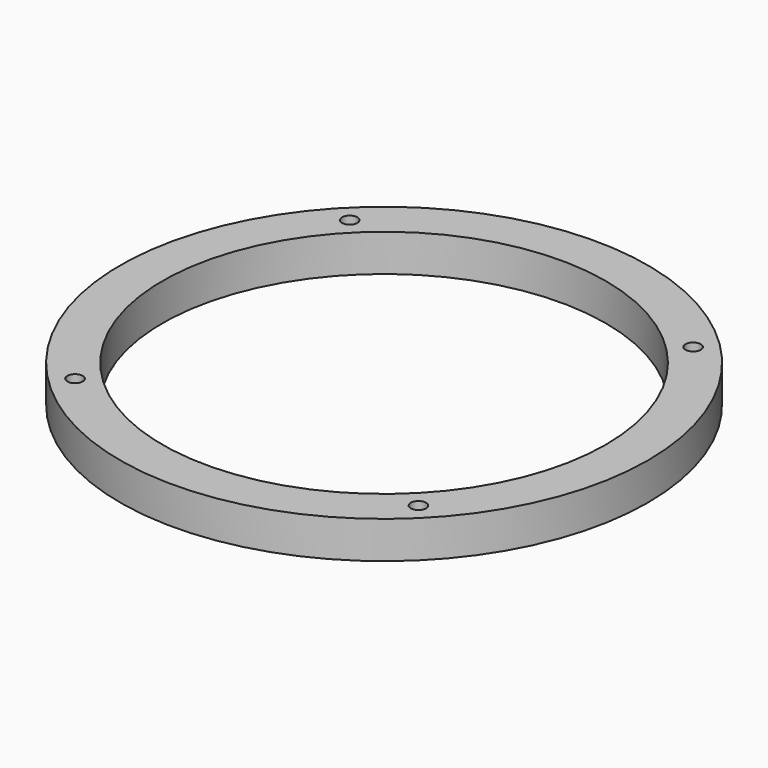
from build123d import *

# Parameters (mm, degrees)
F0_R     = 59.474989
F0_R_2   = 1.7272
F0_R_3   = 49.949989
F1_DEPTH = 8.382


with BuildPart() as f1:
    # F0 (on Top) → F1 (new body)
    with BuildSketch(Plane.XY):
        Circle(F0_R)
        with Locations((-38.687572, -38.687572)):
            Circle(F0_R_2, mode=Mode.SUBTRACT)
        Circle(F0_R_3, mode=Mode.SUBTRACT)
        with Locations((38.687572, -38.687572)):
            Circle(F0_R_2, mode=Mode.SUBTRACT)
        with Locations((-38.687572, 38.687572)):
            Circle(F0_R_2, mode=Mode.SUBTRACT)
        with Locations((38.687572, 38.687572)):
            Circle(F0_R_2, mode=Mode.SUBTRACT)
    extrude(amount=F1_DEPTH)


solid = f1.part
